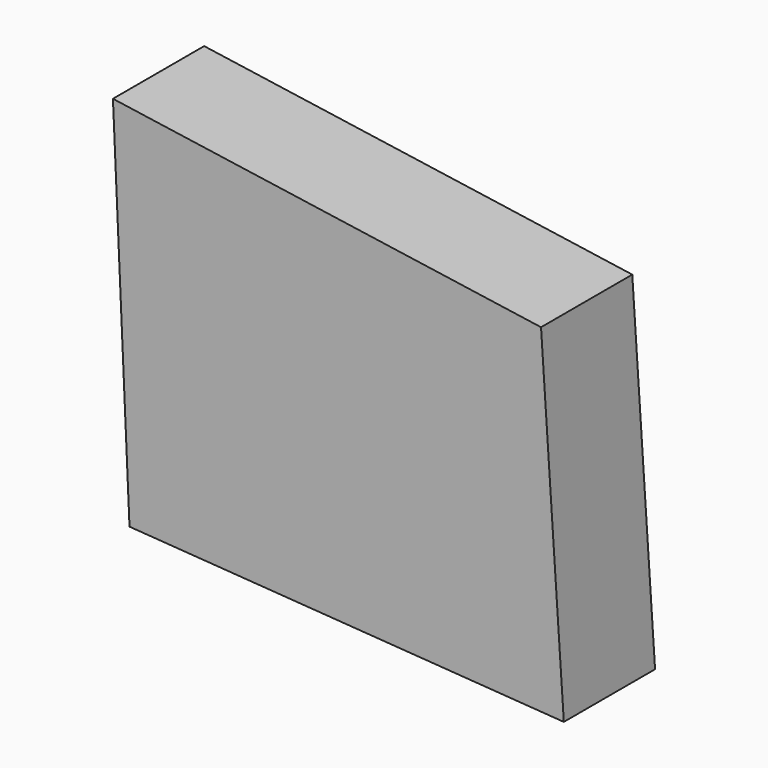
from build123d import *

# Parameters (mm, degrees)
F2_DEPTH = 25.4


with BuildPart() as f2:
    # F1 (on face) → F2 (new body)
    with BuildSketch(Plane.XZ):
        Polygon((52.40202, -38.553499), (47.323626, 37.185993), (-48.026361, 50.981317), (-44.336971, -31.729255), align=None)
    extrude(amount=F2_DEPTH)


solid = f2.part
